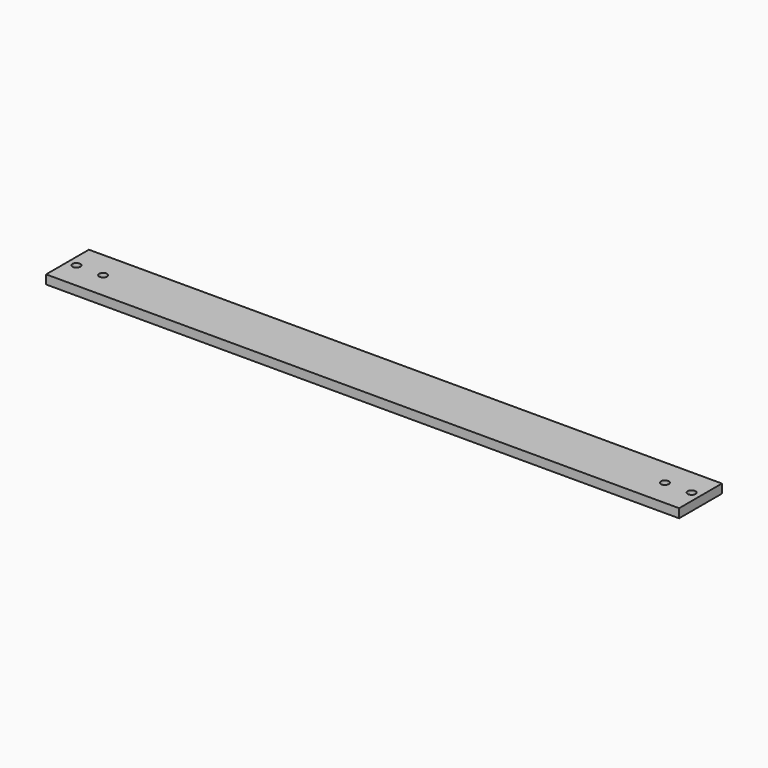
from build123d import *

# Parameters (mm, degrees)
F0_W     = 355
F0_H     = 30
F1_DEPTH = 5
F2_D     = 4.4


with BuildPart() as f1:
    # F0 (on Top) → F1 (new body)
    with BuildSketch(Plane.XY):
        Rectangle(F0_W, F0_H)
    extrude(amount=F1_DEPTH)

    # F2 (through all)
    with Locations(Plane(origin=(0, 0, 0), x_dir=(1, 0, 0), z_dir=(0, 0, -1))):
        with Locations((157.5, 0), (172.5, 0), (-157.5, 0), (-172.5, 0)):
            Hole(F2_D / 2)


solid = f1.part
